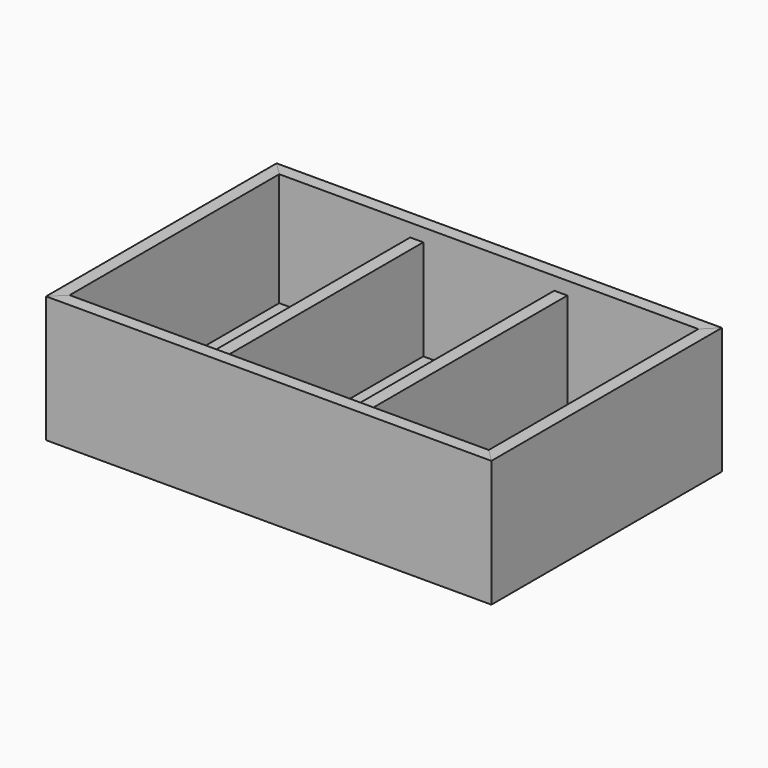
from build123d import *

# Parameters (mm, degrees)
F3_W      = 490
F3_H      = 310
F4_DEPTH  = 5
F6_DEPTH  = 145
F7_DEPTH  = 145
F10_W     = 15
F10_H     = 115
F11_DEPTH = 300


with BuildPart() as f4:
    # F3 (on plane+point) → F4 (new body, through all)
    with BuildSketch(Plane.XY.offset(10)):
        with Locations((0, 165)):
            Rectangle(F3_W, F3_H)
    extrude(amount=F4_DEPTH)


with BuildPart() as f6:
    # F5 (on Top) → F6 (new body, through all)
    with BuildSketch(Plane.XY):
        Polygon((240, 15), (-240, 15), (-255, 0), (255, 0), align=None)
    extrude(amount=F6_DEPTH)

    # F8: cut F4
    add(f4.part, mode=Mode.SUBTRACT)


with BuildPart() as f6b:
    # F5 (on Top) → F6, piece 2 (new body, through all)
    with BuildSketch(Plane.XY):
        Polygon((-255, 330), (-240, 315), (240, 315), (255, 330), align=None)
    extrude(amount=F6_DEPTH)

    # F8: cut F4
    add(f4.part, mode=Mode.SUBTRACT)


with BuildPart() as f7:
    # F5 (on Top) → F7 (new body, through all)
    with BuildSketch(Plane.XY):
        Polygon((-255, 0), (-240, 15), (-240, 315), (-255, 330), align=None)
    extrude(amount=F7_DEPTH)

    # F9: cut F4
    add(f4.part, mode=Mode.SUBTRACT)


with BuildPart() as f7b:
    # F5 (on Top) → F7, piece 2 (new body, through all)
    with BuildSketch(Plane.XY):
        Polygon((240, 315), (240, 15), (255, 0), (255, 330), align=None)
    extrude(amount=F7_DEPTH)

    # F9: cut F4
    add(f4.part, mode=Mode.SUBTRACT)


with BuildPart() as f11:
    # F10 (on face) → F11 (new body, through all)
    with BuildSketch(Plane(origin=(0, 15, 0), x_dir=(-1, 0, 0), z_dir=(0, 1, 0))):
        with Locations((-82.5, 72.5)):
            Rectangle(F10_W, F10_H)
    extrude(amount=F11_DEPTH)


with BuildPart() as f11b:
    # F10 (on face) → F11, piece 2 (new body, through all)
    with BuildSketch(Plane(origin=(0, 15, 0), x_dir=(-1, 0, 0), z_dir=(0, 1, 0))):
        with Locations((82.5, 72.5)):
            Rectangle(F10_W, F10_H)
    extrude(amount=F11_DEPTH)


solid = Compound([f4.part, f6.part, f6b.part, f7.part, f7b.part, f11.part, f11b.part])
